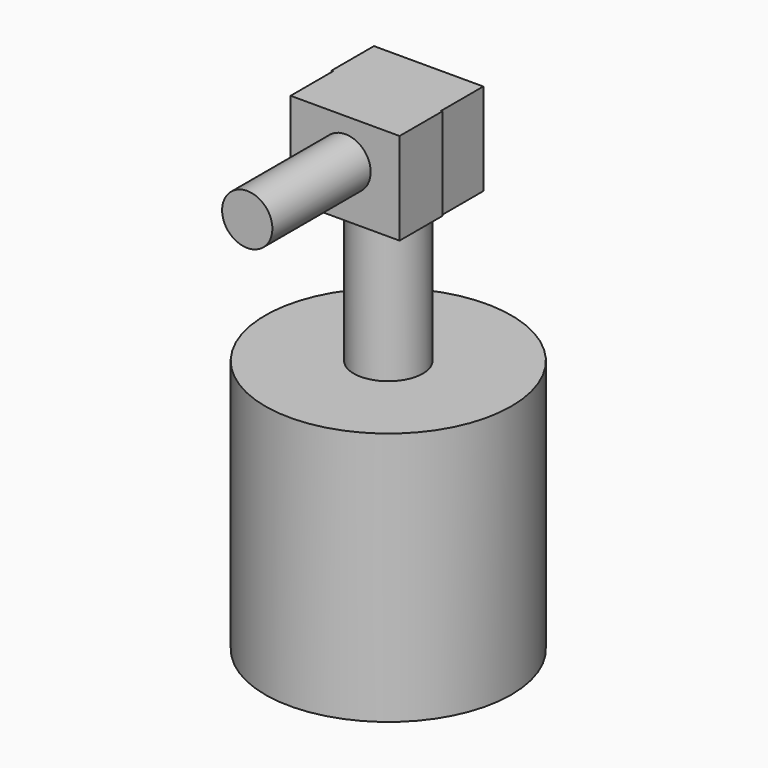
from build123d import *

# Parameters (mm, degrees)
F0_R      = 101.8057448426
F1_DEPTH  = 160
F2_R      = 28.5788941191
F3_DEPTH  = 120
F4_DEPTH  = 50
F6_W      = 90.1293829083
F6_H      = 44.228348881
F7_W      = 90.4394574463
F7_H      = 43.640833348
F8_DEPTH  = 76.2
F9_R      = 20.7879230701
F10_DEPTH = 101.6


with BuildPart() as f1:
    # F0 (on Top) → F1 (new body)
    with BuildSketch(Plane.XY):
        Circle(F0_R)
    extrude(amount=F1_DEPTH)

    # F2 (on face) → F3 (join)
    with BuildSketch(Plane.XY.offset(160)):
        Circle(F2_R)
        Circle(F2_R)
    extrude(amount=F3_DEPTH)

    # F4 (add): a face of the model
    f4_faces = [f1.faces().sort_by_distance(p)[0] for p in [
        (0, 0, 0),
    ]]
    extrude(f4_faces, amount=F4_DEPTH)

    # F6 (on face) + F7 (on face) → F8 (join)
    with BuildSketch(Plane.XY.offset(280)):
        with Locations((-0.3652684391, -22.1141744405)):
            Rectangle(F6_W, F6_H)
    with BuildSketch(Plane.XY.offset(280)):
        with Locations((-1.5747603029, 21.820416674)):
            Rectangle(F7_W, F7_H)
    extrude(amount=F8_DEPTH)

    # F9 (on face) → F10 (join)
    with BuildSketch(Plane.XZ.offset(44.228348881)):
        with Locations((0, 322.1978545189)):
            Circle(F9_R)
    extrude(amount=F10_DEPTH)


solid = f1.part
